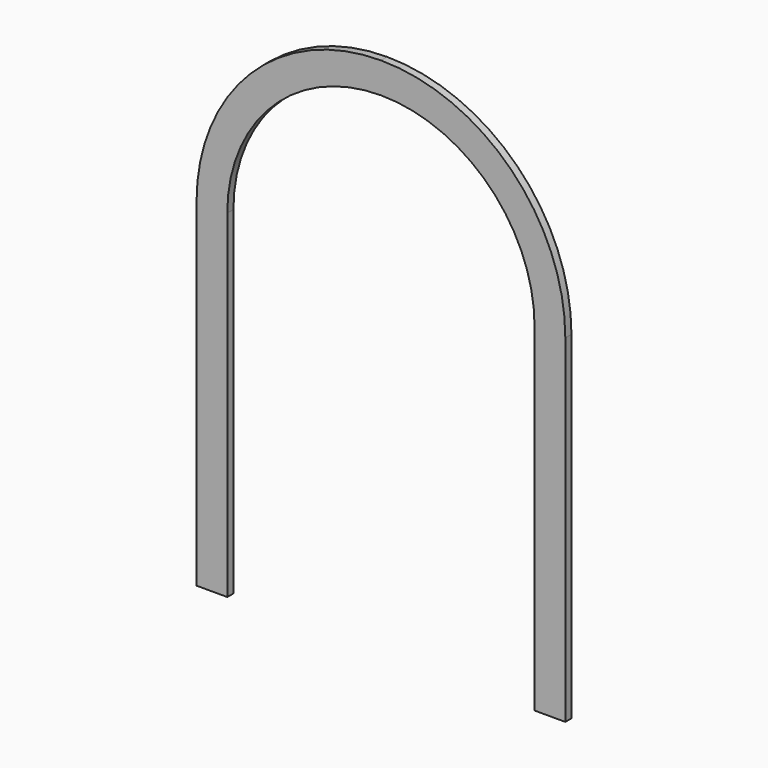
from build123d import *

# Parameters (mm, degrees)
F1_DEPTH = 38.1


with BuildPart() as f1:
    # F0 (on Front) → F1 (new body)
    with BuildSketch(Plane.XZ):
        with BuildLine():
            Line((-762, -1676.4), (-762, 0))
            ThreePointArc((-762, 0), (0, 762), (762, 0))
            Line((762, 0), (762, -1676.4))
            Line((762, -1676.4), (914.4, -1676.4))
            Line((914.4, -1676.4), (914.4, 0))
            ThreePointArc((914.4, 0), (646.57844, 646.578442), (-3e-06, 914.4))
            ThreePointArc((-3e-06, 914.4), (-646.578442, 646.57844), (-914.4, 0))
            Line((-914.4, 0), (-914.4, -1676.4))
            Line((-914.4, -1676.4), (-762, -1676.4))
        make_face()
    extrude(amount=F1_DEPTH)


solid = f1.part
